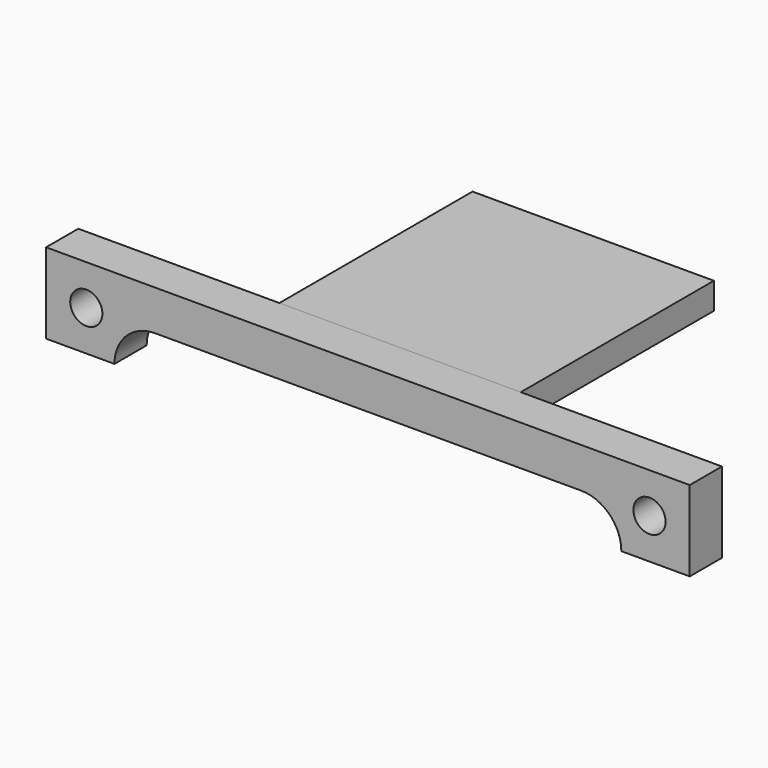
from build123d import *

# Parameters (mm, degrees)
F0_W     = 80
F0_H     = 5
F1_DEPTH = 10
F2_R     = 2
F3_DEPTH = 5.001
F4_W     = 30
F4_H     = 3.299657
F5_DEPTH = 30


with BuildPart() as f1:
    # F0 (on Top) → F1 (new body)
    with BuildSketch(Plane.XY):
        with Locations((0, 2.5)):
            Rectangle(F0_W, F0_H)
    extrude(amount=F1_DEPTH)

    # F2 (on face) → F3 (cut, through all)
    with BuildSketch(Plane.XZ):
        with Locations((35, 5)):
            Circle(F2_R)
        with Locations((-35, 5)):
            Circle(F2_R)
        with BuildLine():
            Line((25, 5), (-25, 5))
            Line((-25, 5), (-26.5, 5))
            ThreePointArc((-26.5, 5), (-30.035534, 3.535534), (-31.5, 0))
            Line((-31.5, 0), (-25, 0))
            Line((-25, 0), (25, 0))
            Line((25, 0), (31.5, 0))
            ThreePointArc((31.5, 0), (30.035534, 3.535534), (26.5, 5))
            Line((26.5, 5), (25, 5))
        make_face()
    extrude(amount=-F3_DEPTH, mode=Mode.SUBTRACT)

    # F4 (on face) → F5 (join)
    with BuildSketch(Plane(origin=(0, 5, 0), x_dir=(-1, 0, 0), z_dir=(0, 1, 0))):
        with Locations((0, 8.350172)):
            Rectangle(F4_W, F4_H)
    extrude(amount=F5_DEPTH)


solid = f1.part
